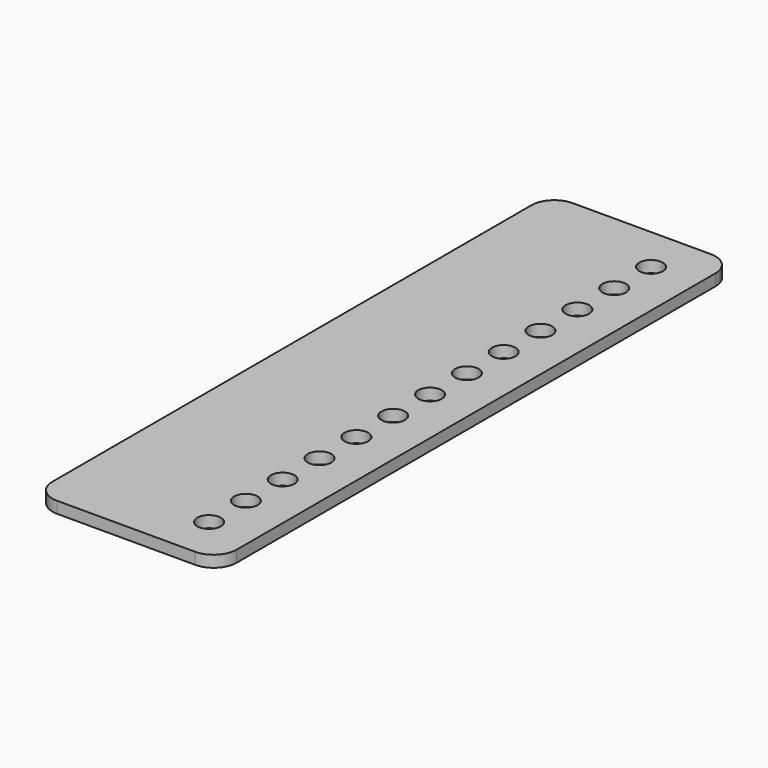
from build123d import *

# Parameters (mm, degrees)
F0_R     = 3.2385
F1_DEPTH = 3.175


with BuildPart() as f1:
    # F0 (on Top) → F1 (new body)
    with BuildSketch(Plane.XY):
        with BuildLine():
            ThreePointArc((0, 6.35), (1.859872, 1.859872), (6.35, 0))
            Line((6.35, 0), (44.45, 0))
            ThreePointArc((44.45, 0), (48.940128, 1.859872), (50.8, 6.35))
            Line((50.8, 6.35), (50.8, 171.45))
            ThreePointArc((50.8, 171.45), (48.940128, 175.940128), (44.45, 177.8))
            Line((44.45, 177.8), (6.35, 177.8))
            ThreePointArc((6.35, 177.8), (1.859872, 175.940128), (0, 171.45))
            Line((0, 171.45), (0, 6.35))
        make_face()
        with Locations((38.1, 12.7)):
            Circle(F0_R, mode=Mode.SUBTRACT)
        with Locations((38.1, 25.4)):
            Circle(F0_R, mode=Mode.SUBTRACT)
        with Locations((38.1, 38.1)):
            Circle(F0_R, mode=Mode.SUBTRACT)
        with Locations((38.1, 50.8)):
            Circle(F0_R, mode=Mode.SUBTRACT)
        with Locations((38.1, 63.5)):
            Circle(F0_R, mode=Mode.SUBTRACT)
        with Locations((38.1, 76.2)):
            Circle(F0_R, mode=Mode.SUBTRACT)
        with Locations((38.1, 88.9)):
            Circle(F0_R, mode=Mode.SUBTRACT)
        with Locations((38.1, 101.6)):
            Circle(F0_R, mode=Mode.SUBTRACT)
        with Locations((38.1, 114.3)):
            Circle(F0_R, mode=Mode.SUBTRACT)
        with Locations((38.1, 127)):
            Circle(F0_R, mode=Mode.SUBTRACT)
        with Locations((38.1, 139.7)):
            Circle(F0_R, mode=Mode.SUBTRACT)
        with Locations((38.1, 152.4)):
            Circle(F0_R, mode=Mode.SUBTRACT)
        with Locations((38.1, 165.1)):
            Circle(F0_R, mode=Mode.SUBTRACT)
    extrude(amount=F1_DEPTH)


solid = f1.part
